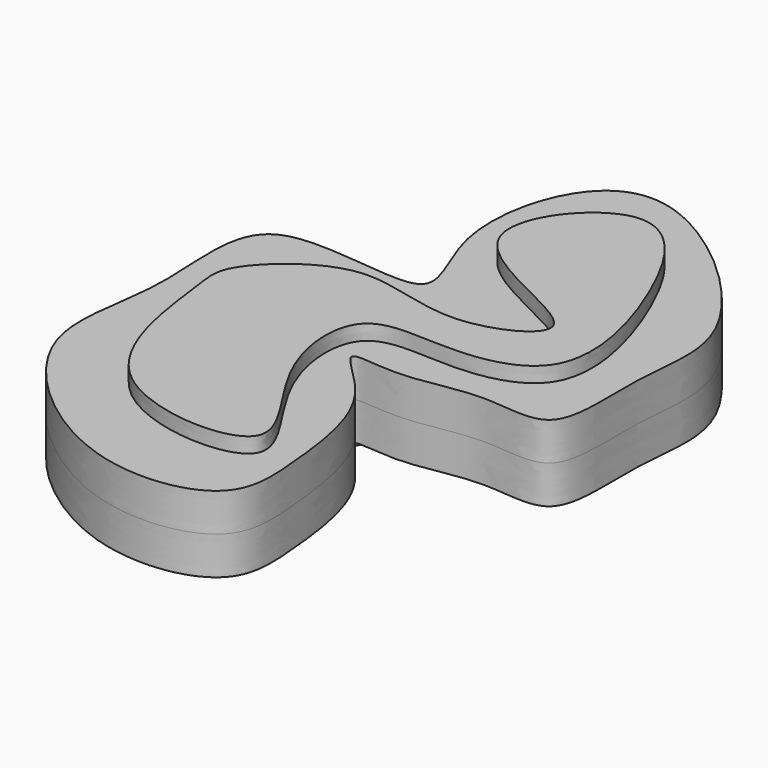
from build123d import *

# Parameters (mm, degrees)
F2_DEPTH = 7
F3_DEPTH = 5


with BuildPart() as f2:
    # F0 (on Top) → F2 (new body)
    with BuildSketch(Plane.XY):
        with BuildLine():
            add(Edge.make_bspline(
                [(-17.8713109344, -40.5373610556), (-24.0240759744, -35.6161773963), (-25.1177971872, -20.6672784548), (-26.6500444523, -14.8664389418), (-14.5071871698, -4.2491838566), (-1.649783109, -12.1292533801), (16.4607609725, -3.3281432701), (-16.538038142, 4.2665632977), (1.2889101148, 26.0639000956), (12.6912369854, 7.8102023268), (17.9003340232, -12.7697997729), (3.7749863646, -15.8350352296), (-9.4067584295, -13.3133186383), (-8.3902629388, -29.6017591012), (7.5035205706, -45.8109641236), (-12.1980010113, -45.0750607575), (-17.8713109344, -40.5373610556)],
                knots=[0, 0, 0, 0, 0.0874420115, 0.1333023503, 0.2005139306, 0.2743075145, 0.3341067271, 0.4199809676, 0.4925935843, 0.569920256, 0.6523088916, 0.7160021335, 0.7776807562, 0.8456952792, 0.9193719201, 1, 1, 1, 1], degree=3))
        make_face()
    extrude(amount=F2_DEPTH)

    # F1 (on Top) → F3 (join)
    with BuildSketch(Plane.XY):
        with BuildLine():
            add(Edge.make_bspline(
                [(-12.6406839117, -52.7421608567), (-20.8512761989, -50.1316137614), (-35.9808388201, -36.536924122), (-29.3627126863, -20.4580857344), (-34.6197921609, 2.3106340755), (-4.2926821737, -7.1450121162), (-15.2910482882, 8.2937005524), (-11.5621484503, 25.5548285616), (1.0031162706, 29.3159437588), (23.4925527688, 8.7855105077), (19.5555670787, -4.3809418269), (21.6212072629, -20.6201625507), (9.9092638329, -17.3817951243), (1.1938405233, -20.4592682277), (-8.9018429364, -18.2574372828), (2.5894024854, -26.4775138496), (4.2612893018, -40.935477507), (5.1585464041, -53.0969539047), (-6.2160421876, -54.7848673028), (-12.6406839117, -52.7421608567)],
                knots=[0, 0, 0, 0, 0.0800679705, 0.1454049314, 0.2088772499, 0.2769843377, 0.3290795013, 0.3937810674, 0.4441261142, 0.5262530687, 0.5857447966, 0.6415359402, 0.6877875562, 0.7397698295, 0.7776515712, 0.8247583603, 0.8877879338, 0.9373482441, 1, 1, 1, 1], degree=3))
        make_face()
    extrude(amount=F3_DEPTH)


with BuildPart() as f4_1:
    # F4: instance of F2
    add(f2.part.mirror(Plane(origin=(-6.2107267742, -14.2143263337, 0), x_dir=(1, 0, 0), z_dir=(0, 0, -1))))


solid = Compound([f2.part, f4_1.part])
